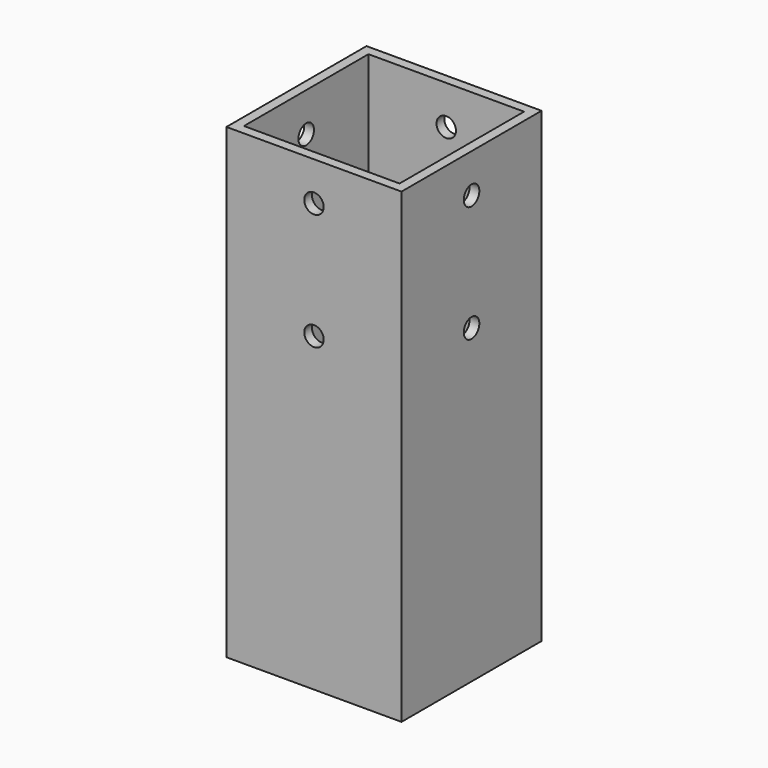
from build123d import *

# Parameters (mm, degrees)
F0_W     = 57.15
F0_H     = 57.15
F0_W_2   = 50.8
F0_H_2   = 50.8
F1_DEPTH = 152.4
F2_R     = 3.175
F3_DEPTH = 57.151
F4_R     = 3.175
F5_DEPTH = 57.151


with BuildPart() as f1:
    # F0 (on Top) → F1 (new body)
    with BuildSketch(Plane.XY):
        Rectangle(F0_W, F0_H)
        Rectangle(F0_W_2, F0_H_2, mode=Mode.SUBTRACT)
    extrude(amount=F1_DEPTH)

    # F2 (on face) → F3 (cut, through all)
    with BuildSketch(Plane.XZ.offset(28.575)):
        with Locations((0, 139.7)):
            Circle(F2_R)
        with Locations((0, 101.6)):
            Circle(F2_R)
    extrude(amount=-F3_DEPTH, mode=Mode.SUBTRACT)

    # F4 (on face) → F5 (cut, through all)
    with BuildSketch(Plane.YZ.offset(28.575)):
        with Locations((0, 139.7)):
            Circle(F4_R)
        with Locations((0, 101.6)):
            Circle(F4_R)
    extrude(amount=-F5_DEPTH, mode=Mode.SUBTRACT)


solid = f1.part
